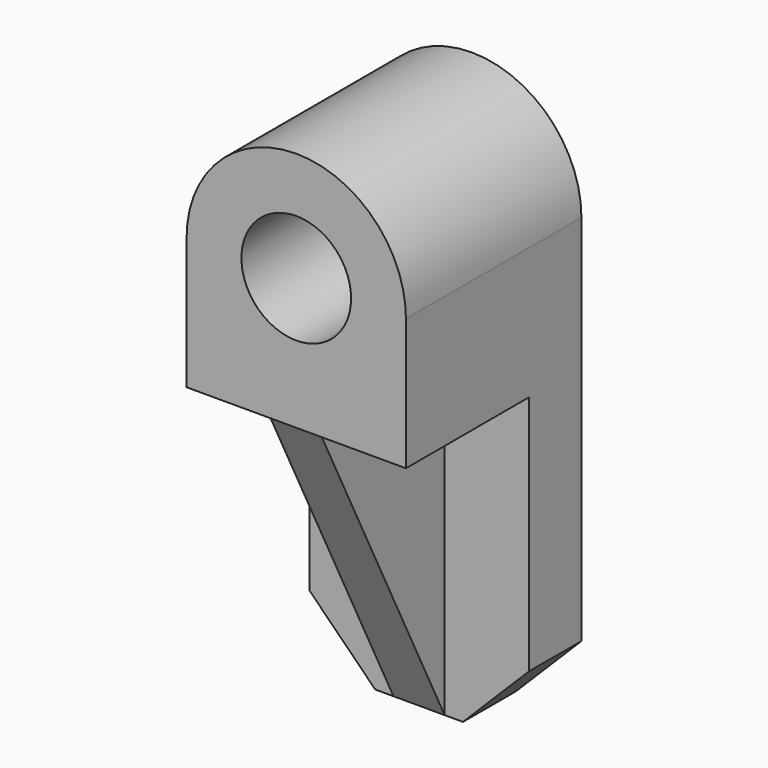
from build123d import *

# Parameters (mm, degrees)
F0_W      = 300
F0_H      = 600
F1_DEPTH  = 90
F3_DEPTH  = 300
F4_W      = 300
F4_H      = 180
F5_DEPTH  = 210
F6_R      = 75
F7_DEPTH  = 300
F9_W      = 70
F9_H      = 210
F10_DEPTH = 420
F12_DEPTH = 70
F14_DEPTH = 90
F16_DEPTH = 90


with BuildPart() as f1:
    # F0 (on Front) → F1 (new body)
    with BuildSketch(Plane.XZ):
        with Locations((-15.188207, -10.138799)):
            Rectangle(F0_W, F0_H)
    extrude(amount=F1_DEPTH)


with BuildPart() as f3:
    # F2 (on face) → F3 (new body)
    with BuildSketch(Plane(origin=(0, 0, 0), x_dir=(-1, 0, 0), z_dir=(0, 1, 0))):
        with BuildLine():
            Line((-134.811793, 289.861201), (165.188207, 289.861201))
            ThreePointArc((165.188207, 289.861201), (15.188207, 439.861201), (-134.811793, 289.861201))
        make_face()
    extrude(amount=-F3_DEPTH)


with BuildPart() as f5:
    # F4 (on face) → F5 (new body)
    with BuildSketch(Plane.XZ.offset(90)):
        with Locations((-15.188207, 199.861201)):
            Rectangle(F4_W, F4_H)
    extrude(amount=F5_DEPTH)


with BuildPart() as f7_tool:
    # F6 (on face) → F7 (new body)
    with BuildSketch(Plane.XZ.offset(300)):
        with Locations((-15.188207, 289.861201)):
            Circle(F6_R)
    extrude(amount=-F7_DEPTH)


with BuildPart() as f1_1:
    add(f1.part)

    # F7: cut by f7_tool
    add(f7_tool.part, mode=Mode.SUBTRACT)


with BuildPart() as f3_1:
    add(f3.part)

    # F7: cut by f7_tool
    add(f7_tool.part, mode=Mode.SUBTRACT)


with BuildPart() as f5_1:
    add(f5.part)

    # F7: cut by f7_tool
    add(f7_tool.part, mode=Mode.SUBTRACT)


with BuildPart() as f1_2:
    add(f1_1.part)

    # F8: union F5, F3
    add(f5_1.part)
    add(f3_1.part)

    # F9 (on face) → F10 (join)
    with BuildSketch(Plane(origin=(0, 0, 109.861201), x_dir=(1, 0, 0), z_dir=(0, 0, -1))):
        with Locations((-15.188207, 195)):
            Rectangle(F9_W, F9_H)
    extrude(amount=F10_DEPTH)

    # F11 (on face) → F12 (cut)
    with BuildSketch(Plane.YZ.offset(19.811793)):
        Polygon((-300, -310.138799), (-90, -310.138799), (-300, 109.861201), align=None)
    extrude(amount=-F12_DEPTH, mode=Mode.SUBTRACT)

    # F13 (on face) → F14 (cut)
    with BuildSketch(Plane.XZ.offset(90)):
        Polygon((-75.188207, -310.138799), (-165.188207, -220.138799), (-165.188207, -310.138799), align=None)
    extrude(amount=-F14_DEPTH, mode=Mode.SUBTRACT)

    # F15 (on face) → F16 (cut)
    with BuildSketch(Plane.XZ.offset(90)):
        Polygon((44.811793, -310.138799), (134.811793, -310.138799), (134.811793, -220.138799), align=None)
    extrude(amount=-F16_DEPTH, mode=Mode.SUBTRACT)


solid = f1_2.part
